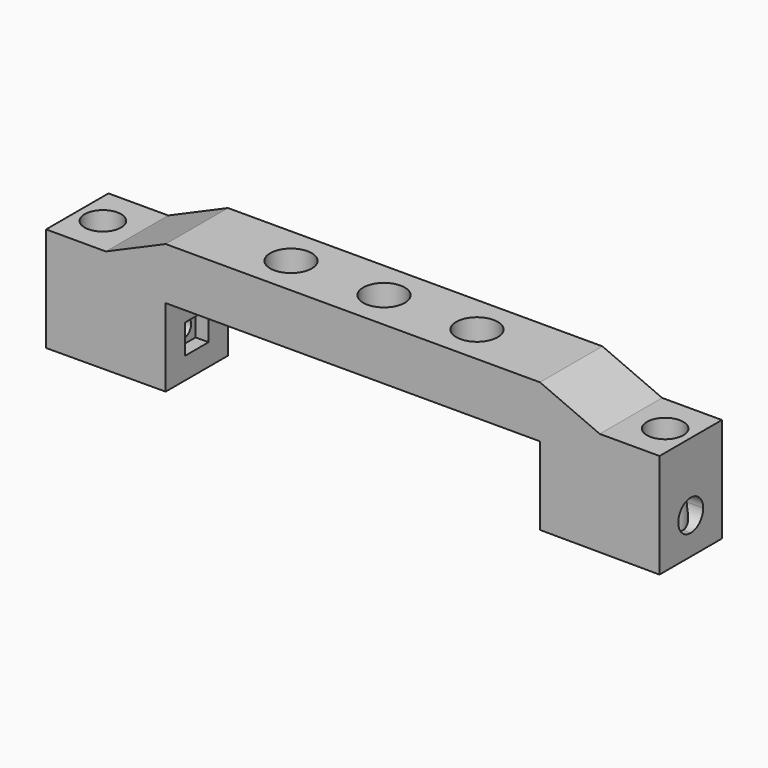
from build123d import *

# Parameters (mm, degrees)
F1_DEPTH  = 15
F5_DEPTH  = 23
F6_DEPTH  = 19
F2_R      = 3.5
F7_DEPTH  = 25
F8_DEPTH  = 2.5
F12_DEPTH = 19
F13_DEPTH = 23
F14_DEPTH = 2.5
F15_DEPTH = 25
F17_DEPTH = 25


with BuildPart() as f1:
    # F0 (on Front) → F1 (new body)
    with BuildSketch(Plane.XZ):
        Polygon((47.5, 0), (36, 5), (36, 2.5), (36, 0), align=None)
        Polygon((-36, -20), (-36, -5), (-59, -5), (-59, -20.0883084536), align=None)
        Polygon((-36, -5), (-36, 0), (-47.5, 0), (-59, 0), (-59, -5), align=None)
        Polygon((-36, 0), (-36, 5), (-47.5, 0), align=None)
        Polygon((36, 5), (-36, 5), (-36, 0), (-36, -5), (36, -5), (36, 0), (36, 2.5), align=None)
        Polygon((59, 0), (47.5, 0), (36, 0), (36, -5), (36, -20), (59, -20.0883084536), (59, -5), align=None)
    extrude(amount=F1_DEPTH)

    # F3 (on face) → F5 (cut)
    with BuildSketch(Plane.YZ.offset(59)):
        with BuildLine():
            ThreePointArc((-5.75, -13.0883084536), (-8.7374368671, -11.8508715865), (-7.5, -14.8383084536))
            ThreePointArc((-7.5, -14.8383084536), (-6.2625631329, -14.3257453206), (-5.75, -13.0883084536))
        make_face()
    extrude(amount=-F5_DEPTH, mode=Mode.SUBTRACT)

    # F3 (on face) → F6 (cut)
    with BuildSketch(Plane.YZ.offset(59)):
        with BuildLine():
            ThreePointArc((-4.5, -13.0883084536), (-9.6213203436, -10.96698811), (-7.5, -16.0883084536))
            ThreePointArc((-7.5, -16.0883084536), (-5.3786796564, -15.2096287971), (-4.5, -13.0883084536))
        make_face()
        with BuildLine():
            ThreePointArc((-5.75, -13.0883084536), (-6.2625631329, -14.3257453206), (-7.5, -14.8383084536))
            ThreePointArc((-7.5, -14.8383084536), (-8.7374368671, -11.8508715865), (-5.75, -13.0883084536))
        make_face(mode=Mode.SUBTRACT)
    extrude(amount=-F6_DEPTH, mode=Mode.SUBTRACT)

    # F2 (on face) → F7 (cut)
    with BuildSketch(Plane(origin=(-0.0762581326, 0, -19.8614852797), x_dir=(0.9999926292, 0, -0.0038394697), z_dir=(-0.0038394697, 0, -0.9999926292))):
        with Locations((54.0766935746, 7.5)):
            Circle(F2_R)
    extrude(amount=-F7_DEPTH, mode=Mode.SUBTRACT)

    # F4 (on face) → F8 (cut)
    with BuildSketch(Plane(origin=(36, 0, 0), x_dir=(0, -1, 0), z_dir=(-1, 0, 0))):
        Polygon((4.675, -15.825), (7.5, -15.825), (10.325, -15.825), (10.325, -10.175), (4.675, -10.175), align=None)
    extrude(amount=-F8_DEPTH, mode=Mode.SUBTRACT)

    # F9 (on face) → F12 (cut)
    with BuildSketch(Plane(origin=(-59, 0, 0), x_dir=(0, -1, 0), z_dir=(-1, 0, 0))):
        with BuildLine():
            ThreePointArc((10.5, -13.0883084536), (5.3786796564, -10.96698811), (7.5, -16.0883084536))
            ThreePointArc((7.5, -16.0883084536), (9.6213203436, -15.2096287971), (10.5, -13.0883084536))
        make_face()
        with BuildLine():
            ThreePointArc((9.25, -13.0883084536), (8.7374368671, -14.3257453206), (7.5, -14.8383084536))
            ThreePointArc((7.5, -14.8383084536), (6.2625631329, -11.8508715865), (9.25, -13.0883084536))
        make_face(mode=Mode.SUBTRACT)
    extrude(amount=-F12_DEPTH, mode=Mode.SUBTRACT)

    # F9 (on face) → F13 (cut)
    with BuildSketch(Plane(origin=(-59, 0, 0), x_dir=(0, -1, 0), z_dir=(-1, 0, 0))):
        with BuildLine():
            ThreePointArc((9.25, -13.0883084536), (6.2625631329, -11.8508715865), (7.5, -14.8383084536))
            ThreePointArc((7.5, -14.8383084536), (8.7374368671, -14.3257453206), (9.25, -13.0883084536))
        make_face()
    extrude(amount=-F13_DEPTH, mode=Mode.SUBTRACT)

    # F10 (on face) → F14 (cut)
    with BuildSketch(Plane.YZ.offset(-36)):
        Polygon((-10.325, -15.825), (-7.5, -15.825), (-4.675, -15.825), (-4.675, -10.175), (-10.325, -10.175), align=None)
    extrude(amount=-F14_DEPTH, mode=Mode.SUBTRACT)

    # F11 (on face) → F15 (cut)
    with BuildSketch(Plane(origin=(0.0762581326, 0, -19.8614852797), x_dir=(0.9999926292, 0, 0.0038394697), z_dir=(0.0038394697, 0, -0.9999926292))):
        with BuildLine():
            ThreePointArc((-50.5766935746, 7.5), (-54.0766935746, 11), (-57.5766935746, 7.5))
            ThreePointArc((-57.5766935746, 7.5), (-54.0766935746, 4), (-50.5766935746, 7.5))
        make_face()
    extrude(amount=-F15_DEPTH, mode=Mode.SUBTRACT)

    # F16 (on face) → F17 (cut)
    with BuildSketch(Plane.XY.offset(5)):
        with BuildLine():
            ThreePointArc((-13.8871266544, -7.5), (-17.8871266544, -3.5), (-21.8871266544, -7.5))
            Line((-21.8871266544, -7.5), (-13.8871266544, -7.5))
        make_face()
        with BuildLine():
            ThreePointArc((21.8871266544, -7.5), (17.8871266544, -3.5), (13.8871266544, -7.5))
            Line((13.8871266544, -7.5), (21.8871266544, -7.5))
        make_face()
        with BuildLine():
            Line((21.8871266544, -7.5), (13.8871266544, -7.5))
            ThreePointArc((13.8871266544, -7.5), (17.8871266544, -11.5), (21.8871266544, -7.5))
        make_face()
        with BuildLine():
            ThreePointArc((4, -7.5), (0, -3.5), (-4, -7.5))
            Line((-4, -7.5), (4, -7.5))
        make_face()
        with BuildLine():
            Line((4, -7.5), (-4, -7.5))
            ThreePointArc((-4, -7.5), (0, -11.5), (4, -7.5))
        make_face()
        with BuildLine():
            Line((-13.8871266544, -7.5), (-21.8871266544, -7.5))
            ThreePointArc((-21.8871266544, -7.5), (-17.8871266544, -11.5), (-13.8871266544, -7.5))
        make_face()
    extrude(amount=-F17_DEPTH, mode=Mode.SUBTRACT)


solid = f1.part
